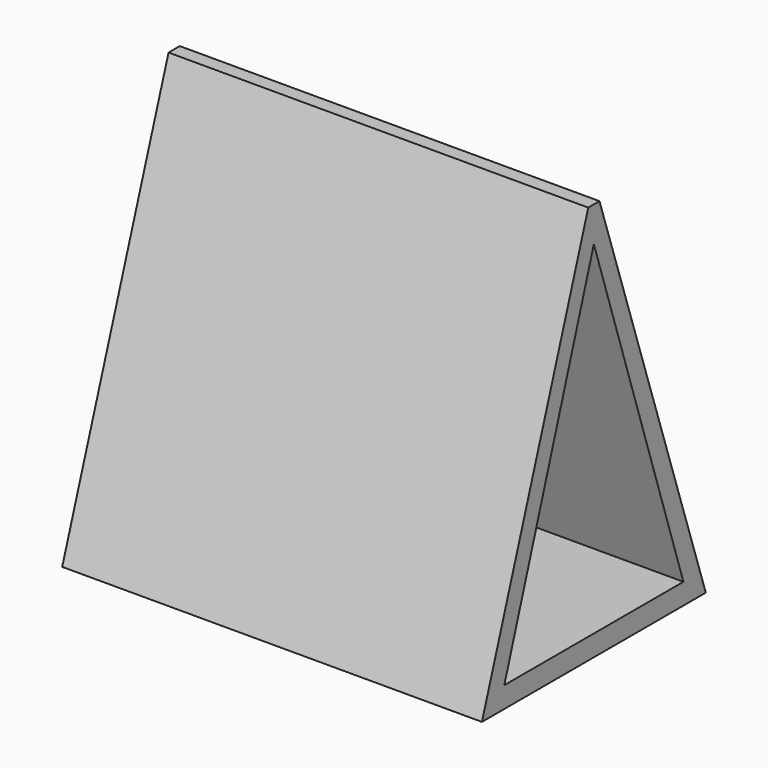
from build123d import *

# Parameters (mm, degrees)
PAD_DEPTH = 60


with BuildPart() as part:
    # Sketch → Pad (new body)
    with BuildSketch(Plane.YZ):
        Polygon((-20, 0), (20, 0), (1, 57), (-1, 57), align=None)
        Polygon((-16, 3), (16, 3), (0, 52), align=None, mode=Mode.SUBTRACT)
    extrude(amount=PAD_DEPTH)


solid = part.part
